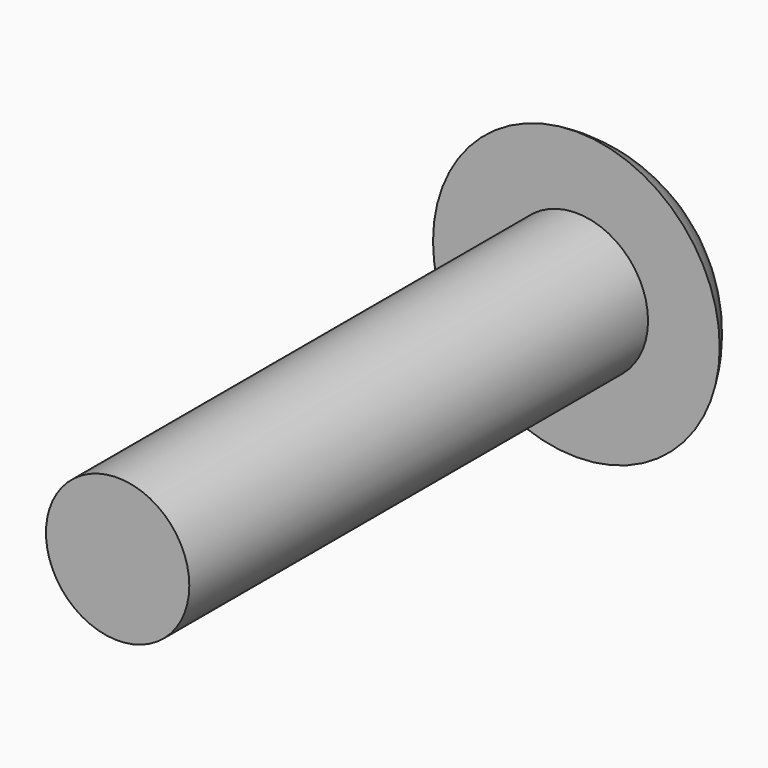
from build123d import *

# Parameters (mm, degrees)
F0_R     = 6.35
F1_DEPTH = 50.8


with BuildPart() as f1:
    # F0 (on Front) → F1 (new body)
    with BuildSketch(Plane.XZ):
        Circle(F0_R)
    extrude(amount=F1_DEPTH)

    # F2 (on Top) → F3 (revolve)
    with BuildSketch(Plane.XY):
        with BuildLine():
            Line((0, 6.35), (0, 0))
            Line((0, 0), (12.7, 0))
            ThreePointArc((12.7, 0), (7.320327, 5.115653), (0, 6.35))
        make_face()
    revolve(axis=Axis((0, 3.175, 0), (0, -1, 0)))


solid = f1.part
